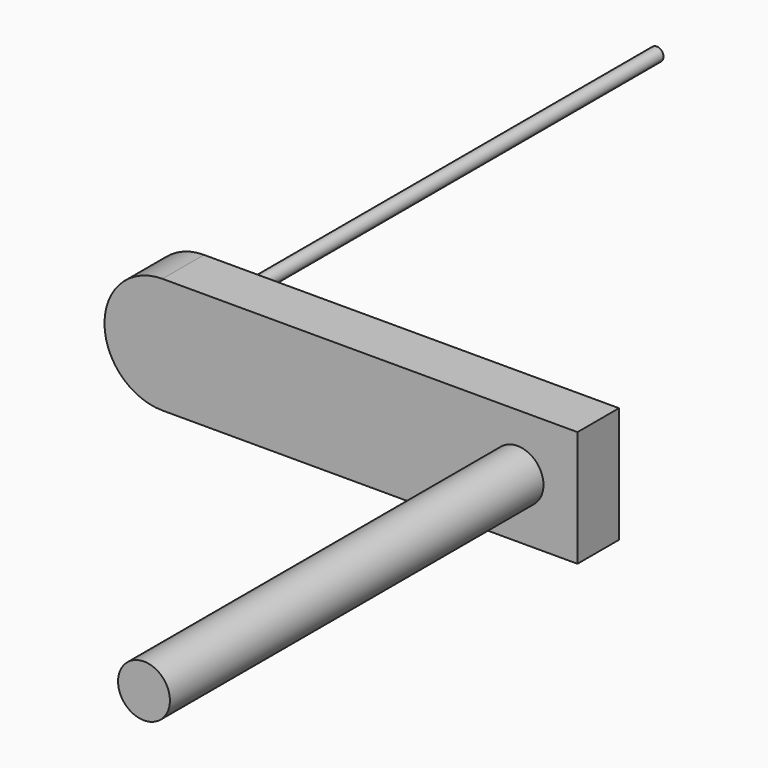
from build123d import *

# Parameters (mm, degrees)
F1_DEPTH = 6.35
F5_R     = 0.8255
F6_DEPTH = 76.2
F4_R     = 3.175
F7_DEPTH = 57.15


with BuildPart() as f1:
    # F0 (on Front) → F1 (new body)
    with BuildSketch(Plane.XZ):
        with BuildLine():
            Line((8.678272, 21.247713), (-42.121728, 21.247713))
            ThreePointArc((-42.121728, 21.247713), (-49.216529, 14.152912), (-42.121728, 7.058111))
            Line((-42.121728, 7.058111), (8.678272, 7.058111))
            Line((8.678272, 7.058111), (8.678272, 21.247713))
        make_face()
    extrude(amount=F1_DEPTH)

    # F5 (on face) → F6 (join)
    with BuildSketch(Plane.XZ.offset(6.35)):
        with Locations((-42.576857, 14.333389)):
            Circle(F5_R)
    extrude(amount=-F6_DEPTH)

    # F4 (on face) → F7 (join)
    with BuildSketch(Plane.XZ.offset(6.35)):
        with Locations((1.337771, 14.203422)):
            Circle(F4_R)
    extrude(amount=F7_DEPTH)


solid = f1.part
